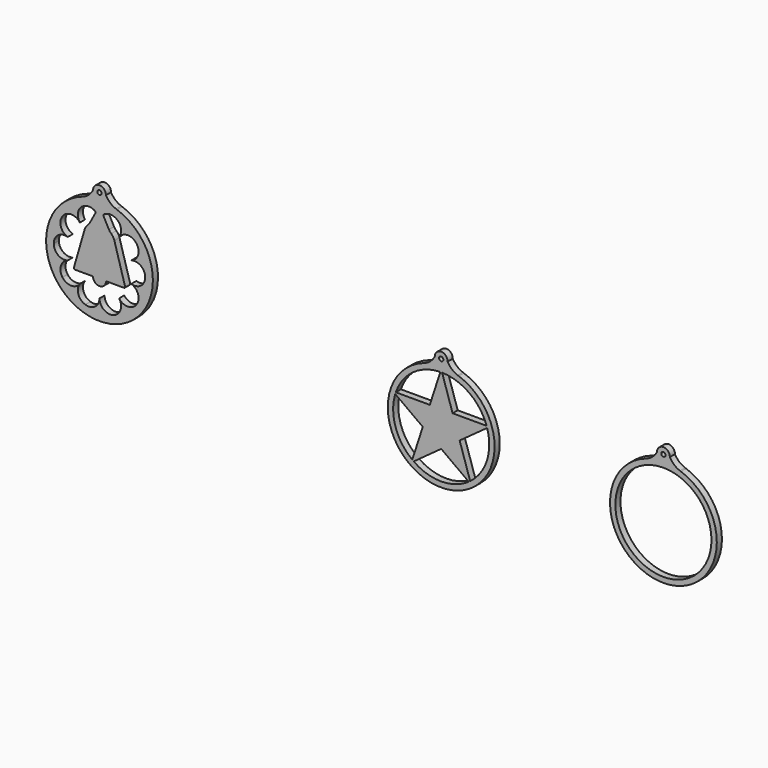
from build123d import *

# Parameters (mm, degrees)
F0_R     = 22.5
F0_R_2   = 1
F1_DEPTH = 3


with BuildPart() as f1:
    # F0 (on Front) → F1 (new body)
    with BuildSketch(Plane.XZ):
        with BuildLine():
            ThreePointArc((101.020595, 22.492121), (98.966841, 19.889855), (96.110283, 18.207663))
            ThreePointArc((96.110283, 18.207663), (95.953969, 18.15276), (95.796672, 18.100744))
            ThreePointArc((95.796672, 18.100744), (104.020595, -30.507879), (112.244519, 18.100744))
            ThreePointArc((112.244519, 18.100744), (112.01172, 18.175785), (111.781047, 18.257124))
            ThreePointArc((111.781047, 18.257124), (109.03143, 19.870558), (107.016805, 22.341356))
            ThreePointArc((107.016805, 22.341356), (104.096001, 25.491173), (101.020595, 22.492121))
        make_face()
        with Locations((104.020595, -5.507879)):
            Circle(F0_R, mode=Mode.SUBTRACT)
        with Locations((104.020595, 22.492121)):
            Circle(F0_R_2, mode=Mode.SUBTRACT)
        with BuildLine():
            ThreePointArc((-3, 28), (-5.053754, 25.397734), (-7.910312, 23.715543))
            ThreePointArc((-7.910312, 23.715543), (-8.066626, 23.660639), (-8.223924, 23.608623))
            ThreePointArc((-8.223924, 23.608623), (0, -25), (8.223924, 23.608623))
            ThreePointArc((8.223924, 23.608623), (7.991125, 23.683664), (7.760451, 23.765004))
            ThreePointArc((7.760451, 23.765004), (5.010835, 25.378438), (2.996209, 27.849235))
            ThreePointArc((2.996209, 27.849235), (0.075406, 30.999052), (-3, 28))
        make_face()
        with BuildLine():
            Line((-12.893449, -18.439332), (0, -9.071693))
            Line((0, -9.071693), (12.893449, -18.439332))
            ThreePointArc((12.893449, -18.439332), (0, -22.5), (-12.893449, -18.439332))
        make_face(mode=Mode.SUBTRACT)
        with BuildLine():
            Line((-8.627693, -2.803307), (-13.552552, -17.960466))
            ThreePointArc((-13.552552, -17.960466), (-21.398772, -6.952882), (-21.521142, 6.564332))
            Line((-21.521142, 6.564332), (-8.627693, -2.803307))
        make_face(mode=Mode.SUBTRACT)
        with BuildLine():
            Line((8.627693, -2.803307), (21.521142, 6.564332))
            ThreePointArc((21.521142, 6.564332), (21.398772, -6.952882), (13.552552, -17.960466))
            Line((13.552552, -17.960466), (8.627693, -2.803307))
        make_face(mode=Mode.SUBTRACT)
        with BuildLine():
            ThreePointArc((-21.269387, 7.339154), (-13.225168, 18.202882), (-0.407348, 22.496312))
            Line((-0.407348, 22.496312), (-5.332207, 7.339154))
            Line((-5.332207, 7.339154), (-21.269387, 7.339154))
        make_face(mode=Mode.SUBTRACT)
        with BuildLine():
            Line((5.332207, 7.339154), (0.407348, 22.496312))
            ThreePointArc((0.407348, 22.496312), (13.225168, 18.202882), (21.269387, 7.339154))
            Line((21.269387, 7.339154), (5.332207, 7.339154))
        make_face(mode=Mode.SUBTRACT)
        with Locations((0, 28)):
            Circle(F0_R_2, mode=Mode.SUBTRACT)
        with BuildLine():
            ThreePointArc((-162.982522, 44.556018), (-165.036276, 41.953752), (-167.892835, 40.27156))
            ThreePointArc((-167.892835, 40.27156), (-168.049148, 40.216657), (-168.206446, 40.164641))
            ThreePointArc((-168.206446, 40.164641), (-159.982522, -8.443982), (-151.758598, 40.164641))
            ThreePointArc((-151.758598, 40.164641), (-151.991397, 40.239682), (-152.222071, 40.321021))
            ThreePointArc((-152.222071, 40.321021), (-154.971687, 41.934455), (-156.986313, 44.405253))
            ThreePointArc((-156.986313, 44.405253), (-159.907116, 47.55507), (-162.982522, 44.556018))
        make_face()
        with BuildLine():
            ThreePointArc((-157.94863, 36.199304), (-155.781323, 37.109887), (-153.437437, 36.92939))
            Line((-153.437437, 36.92939), (-153.302439, 36.885527))
            ThreePointArc((-153.302439, 36.885527), (-150.092241, 33.675329), (-150.802439, 29.191318))
            ThreePointArc((-150.802439, 29.191318), (-146.757354, 31.252392), (-142.712269, 29.191318))
            Line((-142.712269, 29.191318), (-142.628835, 29.076482))
            ThreePointArc((-142.628835, 29.076482), (-141.918638, 24.59247), (-145.128835, 21.382273))
            ThreePointArc((-145.128835, 21.382273), (-140.644824, 20.672075), (-138.58375, 16.62699))
            Line((-138.58375, 16.62699), (-138.58375, 16.485045))
            ThreePointArc((-138.58375, 16.485045), (-140.644824, 12.43996), (-145.128835, 11.729762))
            ThreePointArc((-145.128835, 11.729762), (-141.918638, 8.519565), (-142.628835, 4.035553))
            Line((-142.628835, 4.035553), (-142.712269, 3.920717))
            ThreePointArc((-142.712269, 3.920717), (-146.757354, 1.859643), (-150.802439, 3.920717))
            ThreePointArc((-150.802439, 3.920717), (-150.092241, -0.563294), (-153.302439, -3.773492))
            Line((-153.302439, -3.773492), (-153.437437, -3.817355))
            ThreePointArc((-153.437437, -3.817355), (-157.921448, -3.107158), (-159.982522, 0.937927))
            ThreePointArc((-159.982522, 0.937927), (-162.043596, -3.107158), (-166.527607, -3.817355))
            Line((-166.527607, -3.817355), (-166.662605, -3.773492))
            ThreePointArc((-166.662605, -3.773492), (-169.872803, -0.563294), (-169.162605, 3.920717))
            ThreePointArc((-169.162605, 3.920717), (-173.20769, 1.859643), (-177.252775, 3.920717))
            Line((-177.252775, 3.920717), (-177.336209, 4.035553))
            ThreePointArc((-177.336209, 4.035553), (-178.046406, 8.519565), (-174.836209, 11.729762))
            ThreePointArc((-174.836209, 11.729762), (-179.32022, 12.43996), (-181.381294, 16.485045))
            Line((-181.381294, 16.485045), (-181.381294, 16.62699))
            ThreePointArc((-181.381294, 16.62699), (-179.32022, 20.672075), (-174.836209, 21.382273))
            ThreePointArc((-174.836209, 21.382273), (-178.046406, 24.59247), (-177.336209, 29.076482))
            Line((-177.336209, 29.076482), (-177.252775, 29.191318))
            ThreePointArc((-177.252775, 29.191318), (-173.20769, 31.252392), (-169.162605, 29.191318))
            ThreePointArc((-169.162605, 29.191318), (-169.872803, 33.675329), (-166.662605, 36.885527))
            Line((-166.662605, 36.885527), (-166.527607, 36.92939))
            ThreePointArc((-166.527607, 36.92939), (-164.183721, 37.109887), (-162.016414, 36.199304))
            ThreePointArc((-162.016414, 36.199304), (-161.814482, 35.890711), (-161.863449, 35.525185))
            Line((-161.863449, 35.525185), (-164.413654, 30.737998))
            ThreePointArc((-164.413654, 30.737998), (-164.88859, 30.007831), (-165.483037, 29.371166))
            ThreePointArc((-165.483037, 29.371166), (-166.375202, 28.310399), (-166.941866, 27.045458))
            Line((-166.941866, 27.045458), (-171.973581, 9.685492))
            ThreePointArc((-171.973581, 9.685492), (-171.888485, 9.220788), (-171.465842, 9.009688))
            Line((-171.465842, 9.009688), (-163.022149, 9.009688))
            ThreePointArc((-163.022149, 9.009688), (-159.982522, 5.970062), (-156.942895, 9.009688))
            Line((-156.942895, 9.009688), (-148.499202, 9.009688))
            ThreePointArc((-148.499202, 9.009688), (-148.076559, 9.220788), (-147.991463, 9.685492))
            Line((-147.991463, 9.685492), (-153.023178, 27.045458))
            ThreePointArc((-153.023178, 27.045458), (-153.589842, 28.310399), (-154.482007, 29.371166))
            ThreePointArc((-154.482007, 29.371166), (-155.076454, 30.007831), (-155.55139, 30.737998))
            Line((-155.55139, 30.737998), (-158.101595, 35.525185))
            ThreePointArc((-158.101595, 35.525185), (-158.150562, 35.890711), (-157.94863, 36.199304))
        make_face(mode=Mode.SUBTRACT)
        with Locations((-159.982522, 44.556018)):
            Circle(F0_R_2, mode=Mode.SUBTRACT)
    extrude(amount=F1_DEPTH)


solid = f1.part
